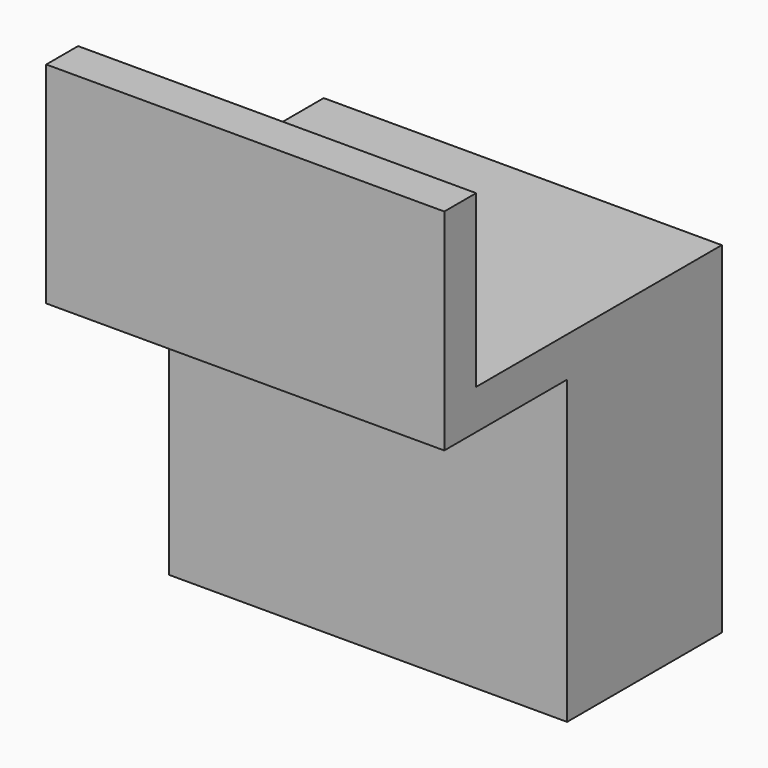
from build123d import *

# Parameters (mm, degrees)
F1_DEPTH = 17.5
F3_DEPTH = 5


with BuildPart() as f1:
    # F0 (on Right) → F1 (new body, symmetric)
    with BuildSketch(Plane.YZ):
        Polygon((-18.5, 18.5), (-22, 18.5), (-22, 0), (-8.5, 0), (-8.5, -26.5), (8.5, -26.5), (8.5, 3.5), (-18.5, 3.5), align=None)
    extrude(amount=F1_DEPTH, both=True)

    # F2 (on Front) → F3 (cut, symmetric)
    with BuildSketch(Plane.XZ):
        Polygon((15, -18.5), (0, -3.5), (-15, -18.5), (-15, -27.1995458752), (15, -27.1995458752), align=None)
    extrude(amount=F3_DEPTH, both=True, mode=Mode.SUBTRACT)


solid = f1.part
